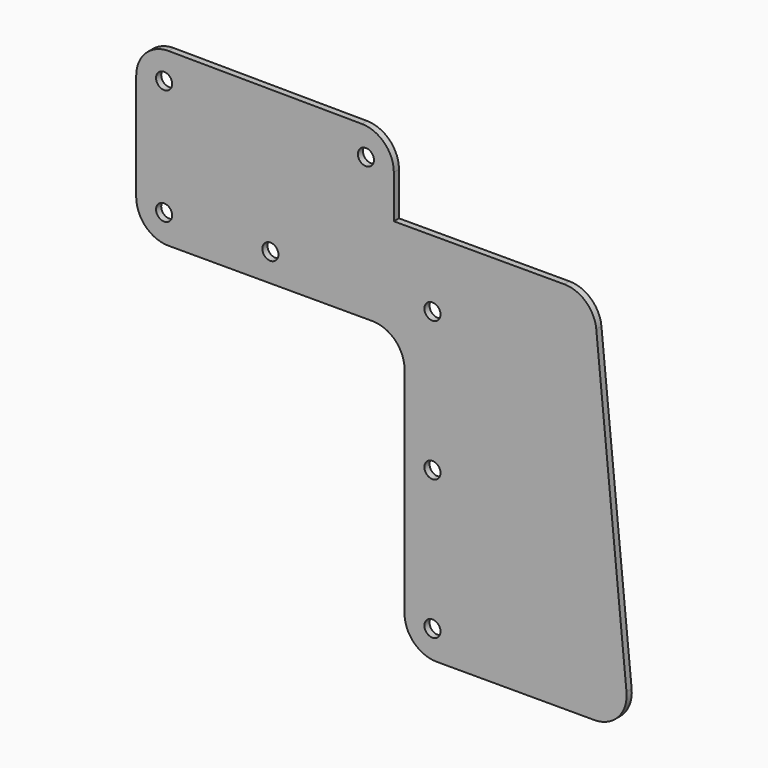
from build123d import *

# Parameters (mm, degrees)
F0_R     = 3.75
F1_DEPTH = 3


with BuildPart() as f1:
    # F0 (on Front) → F1 (new body)
    with BuildSketch(Plane.XZ):
        with BuildLine():
            ThreePointArc((15.103494, -0.10421), (4.430052, -4.460724), (0, -15.103853))
            Line((0, -15.103853), (0, -65))
            ThreePointArc((0, -65), (4.393398, -75.606602), (15, -80))
            Line((15, -80), (110, -80))
            ThreePointArc((110, -80), (120.606602, -84.393398), (125, -95))
            Line((125, -95), (125, -195))
            ThreePointArc((125, -195), (129.393398, -205.606602), (140, -210))
            Line((140, -210), (213.46438, -210))
            ThreePointArc((213.46438, -210), (224.574304, -205.078174), (228.393413, -193.542612))
            Line((228.393413, -193.542612), (214.319188, -49.370563))
            ThreePointArc((214.319188, -49.370563), (209.468329, -39.718027), (199.390155, -35.82795))
            Line((199.390155, -35.82795), (119.997144, -35.82795))
            Line((119.997144, -35.82795), (119.997144, -15.724811))
            ThreePointArc((119.997144, -15.724811), (115.640273, -5.154863), (105.100638, -0.725168))
            Line((105.100638, -0.725168), (15.103494, -0.10421))
        make_face()
        with Locations((138, -197)):
            Circle(F0_R, mode=Mode.SUBTRACT)
        with Locations((138, -132)):
            Circle(F0_R, mode=Mode.SUBTRACT)
        with Locations((13, -67)):
            Circle(F0_R, mode=Mode.SUBTRACT)
        with Locations((62.5, -67)):
            Circle(F0_R, mode=Mode.SUBTRACT)
        with Locations((13, -13.090006)):
            Circle(F0_R, mode=Mode.SUBTRACT)
        with Locations((106.997144, -13.738563)):
            Circle(F0_R, mode=Mode.SUBTRACT)
        with Locations((138, -67)):
            Circle(F0_R, mode=Mode.SUBTRACT)
    extrude(amount=F1_DEPTH)


solid = f1.part
